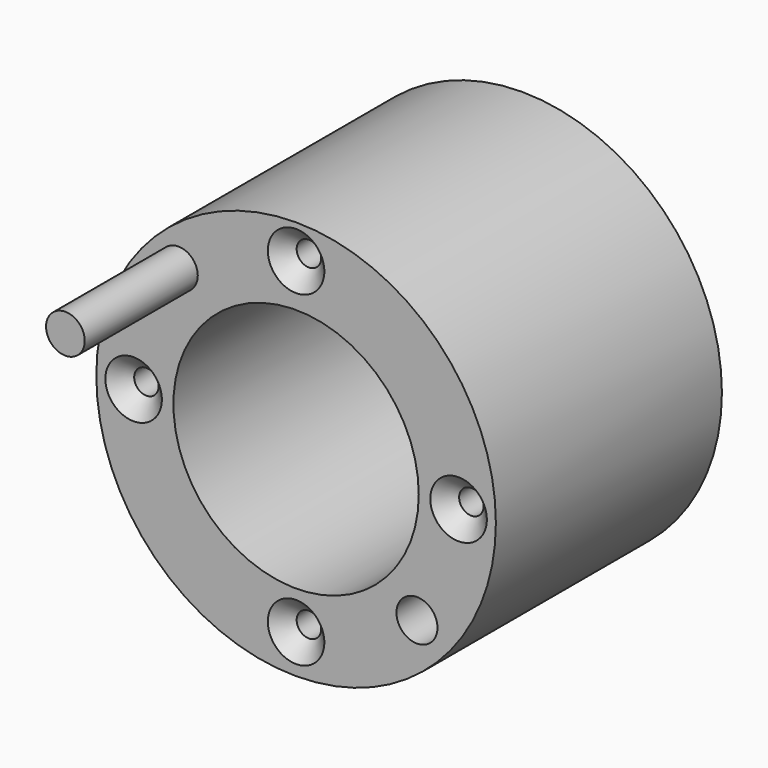
from build123d import *

# Parameters (mm, degrees)
F0_R           = 35.917539
F0_R_2         = 22.055201
F1_DEPTH       = 25.4
F3_D           = 4.4
F3_CSINK_D     = 10.16
F3_CSINK_ANGLE = 90
F4_R           = 3.4798
F5_DEPTH       = 25.4
F6_R           = 3.685712
F7_DEPTH       = 25.4


with BuildPart() as f1:
    # F0 (on Front) → F1 (new body, symmetric)
    with BuildSketch(Plane.XZ):
        Circle(F0_R)
        Circle(F0_R_2, mode=Mode.SUBTRACT)
    extrude(amount=F1_DEPTH, both=True)

    # F3 (through all)
    with Locations(Plane.XZ.offset(25.4)):
        with Locations((-29.212285, 0), (0, 29.787894), (29.212283, 0), (0, -28.924478)):
            CounterSinkHole(F3_D / 2, F3_CSINK_D / 2, counter_sink_angle=F3_CSINK_ANGLE)

    # F4 (on face) → F5 (join)
    with BuildSketch(Plane.XZ.offset(25.4)):
        with Locations((-21.153724, 21.729333)):
            Circle(F4_R)
    extrude(amount=F5_DEPTH)

    # F6 (on face) → F7 (cut)
    with BuildSketch(Plane.XZ.offset(25.4)):
        with Locations((21.729335, -20.002501)):
            Circle(F6_R)
    extrude(amount=-F7_DEPTH, mode=Mode.SUBTRACT)


solid = f1.part
